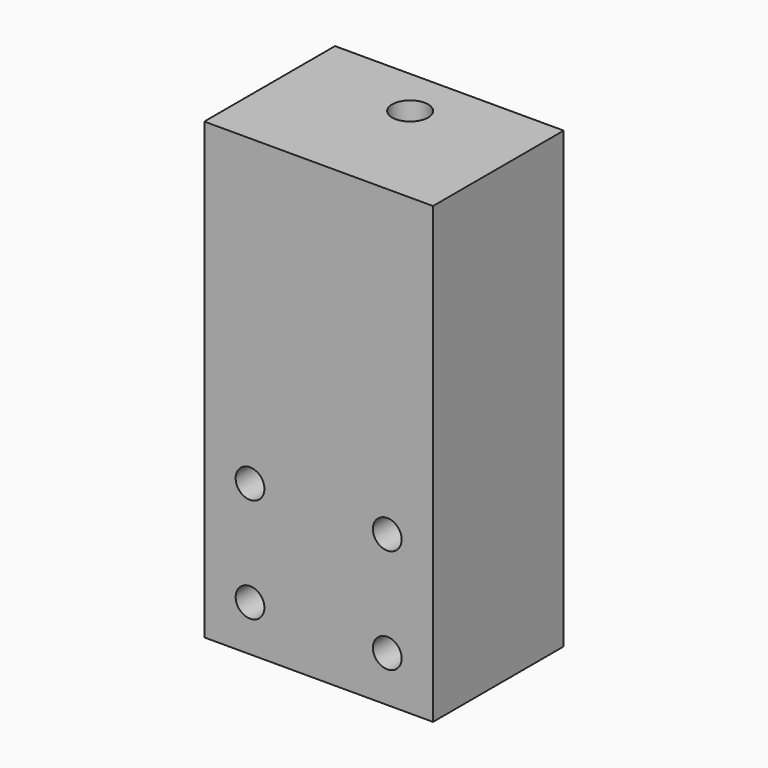
from build123d import *

# Parameters (mm, degrees)
SKETCH_W        = 25
SKETCH_H        = 69.5
PAD_DEPTH       = 17.5
POCKET_DEPTH    = 4.5
SKETCH003_R     = 2.75
HOLE001_DEPTH   = 12
SKETCH004_R     = 2.2
HOLE_DEPTH      = 25.001
POCKET001_DEPTH = 3.2


with BuildPart() as part:
    # Sketch → Pad (new body, symmetric)
    with BuildSketch(Plane.YZ):
        with Locations((42.5, -44.75)):
            Rectangle(SKETCH_W, SKETCH_H)
    extrude(amount=PAD_DEPTH, both=True)

    # Sketch002 → Pocket (cut)
    with BuildSketch(Plane(origin=(0, 0, -18), x_dir=(0, -1, 0), z_dir=(0, 0, 1))):
        Polygon((-55, -4.25), (-55, 4.25), (-45.046262, 4.25), (-42.592523, 0), (-45.046262, -4.25), align=None)
    extrude(amount=-POCKET_DEPTH, mode=Mode.SUBTRACT)

    # Sketch003 (on Face2 of Pocket) → Hole001 (cut)
    with BuildSketch(Plane(origin=(0, 0, -10), x_dir=(0, -1, 0), z_dir=(0, 0, 1))):
        with Locations((-47.5, 0)):
            Circle(SKETCH003_R)
    extrude(amount=-HOLE001_DEPTH, mode=Mode.SUBTRACT)

    # Sketch004 (on Face6 of Hole001) → Hole (cut, through all)
    with BuildSketch(Plane.ZX.offset(55)):
        with Locations((-72.5, 10.5)):
            Circle(SKETCH004_R)
        with Locations((-56.5, 10.5)):
            Circle(SKETCH004_R)
        with Locations((-72.5, -10.5)):
            Circle(SKETCH004_R)
        with Locations((-56.5, -10.5)):
            Circle(SKETCH004_R)
    extrude(amount=-HOLE_DEPTH, mode=Mode.SUBTRACT)

    # Sketch005 (on Face10 of Hole) → Pocket001 (cut)
    with BuildSketch(Plane.ZX.offset(55)):
        Polygon((-70.190599, 14.5), (-74.809401, 14.5), (-77.118802, 10.5), (-74.809401, 6.5), (-70.190599, 6.5), (-67.881198, 10.5), align=None)
        Polygon((-51.881198, 10.5), (-54.190599, 14.5), (-58.809401, 14.5), (-61.118802, 10.5), (-58.809401, 6.5), (-54.190599, 6.5), align=None)
        Polygon((-51.881198, -10.5), (-54.190599, -6.5), (-58.809401, -6.5), (-61.118802, -10.5), (-58.809401, -14.5), (-54.190599, -14.5), align=None)
        Polygon((-70.190599, -6.5), (-74.809401, -6.5), (-77.118802, -10.5), (-74.809401, -14.5), (-70.190599, -14.5), (-67.881198, -10.5), align=None)
    extrude(amount=-POCKET001_DEPTH, mode=Mode.SUBTRACT)


solid = part.part
